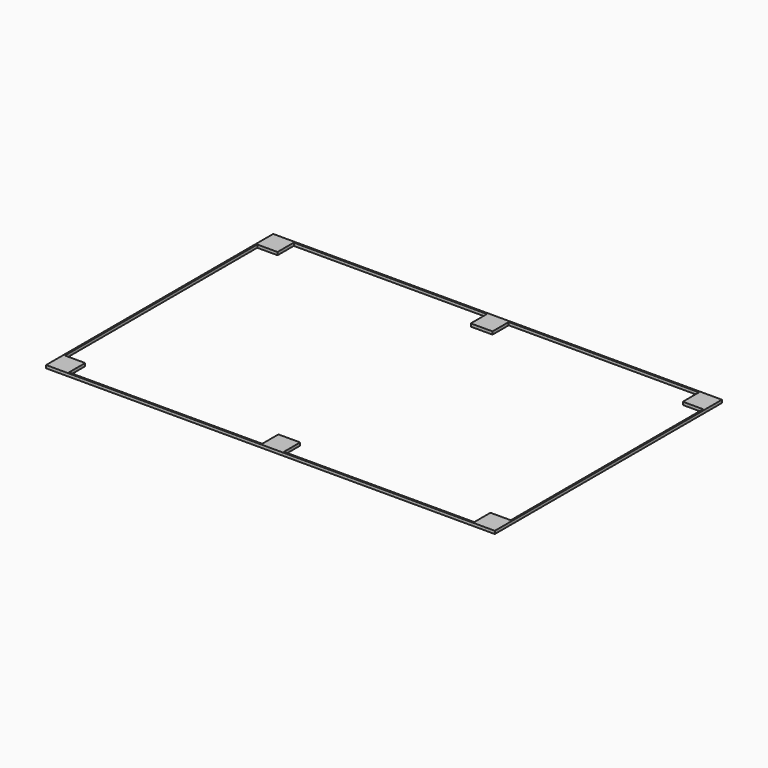
from build123d import *

# Parameters (mm, degrees)
F0_W     = 66.7
F0_H     = 0.5
F0_W_2   = 0.5
F0_H_2   = 83
F0_W_3   = 65.7
F1_DEPTH = 1


with BuildPart() as f1:
    # F0 (on Top) → F1 (new body)
    with BuildSketch(Plane.XY):
        Polygon((-69.95, 49), (-77.45, 49), (-77.45, 41.5), (-76.95, 41.5), (-69.95, 41.5), (-69.95, 48.5), align=None)
        with Locations((-36.6, 48.75)):
            Rectangle(F0_W, F0_H)
        with Locations((-77.2, 0)):
            Rectangle(F0_W_2, F0_H_2)
        Polygon((0, 49), (-3.25, 49), (-3.25, 48.5), (-3.25, 41.5), (4.25, 41.5), (4.25, 48.5), (4.25, 49), align=None)
        Polygon((-76.95, -41.5), (-77.45, -41.5), (-77.45, -49), (-69.95, -49), (-69.95, -48.5), (-69.95, -41.5), align=None)
        with Locations((37.1, 48.75)):
            Rectangle(F0_W_3, F0_H)
        with Locations((-36.6, -48.75)):
            Rectangle(F0_W, F0_H)
        Polygon((77.45, 49), (69.95, 49), (69.95, 48.5), (69.95, 41.5), (76.95, 41.5), (77.45, 41.5), align=None)
        Polygon((-3.25, -48.5), (-3.25, -49), (0, -49), (4.25, -49), (4.25, -48.5), (4.25, -41.5), (-3.25, -41.5), align=None)
        with Locations((77.2, 0)):
            Rectangle(F0_W_2, F0_H_2)
        with Locations((37.1, -48.75)):
            Rectangle(F0_W_3, F0_H)
        Polygon((77.45, -49), (77.45, -41.5), (76.95, -41.5), (69.95, -41.5), (69.95, -48.5), (69.95, -49), align=None)
    extrude(amount=F1_DEPTH)


solid = f1.part
